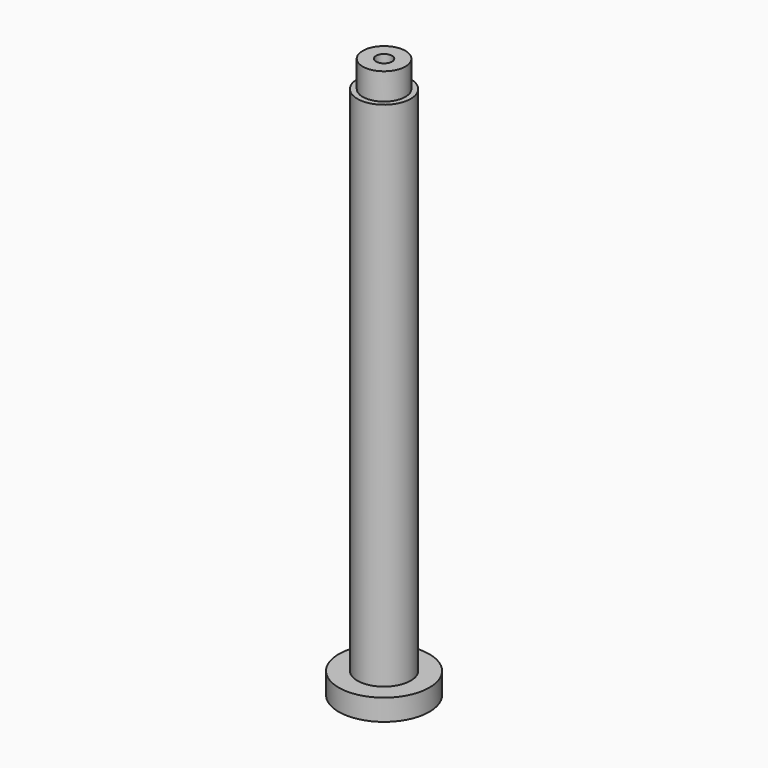
from build123d import *

# Parameters (mm, degrees)
F0_R     = 8.5
F1_DEPTH = 4
F2_R     = 5
F3_DEPTH = 100
F4_W     = 4
F4_H     = 5
F6_R     = 1.5
F7_DEPTH = 112


with BuildPart() as f1:
    # F0 (on Top) → F1 (new body)
    with BuildSketch(Plane.XY):
        Circle(F0_R)
    extrude(amount=F1_DEPTH)

    # F2 (on Top) → F3 (join)
    with BuildSketch(Plane.XY):
        Circle(F2_R)
    extrude(amount=F3_DEPTH)

    # F4 (on Right) → F5 (revolve)
    with BuildSketch(Plane.YZ):
        with Locations((2, 102.5)):
            Rectangle(F4_W, F4_H)
    revolve(axis=Axis((0, 0, 102.5), (0, 0, -1)))

    # F6 (on face) → F7 (cut)
    with BuildSketch(Plane.XY.offset(105)):
        Circle(F6_R)
    extrude(amount=-F7_DEPTH, mode=Mode.SUBTRACT)


solid = f1.part
